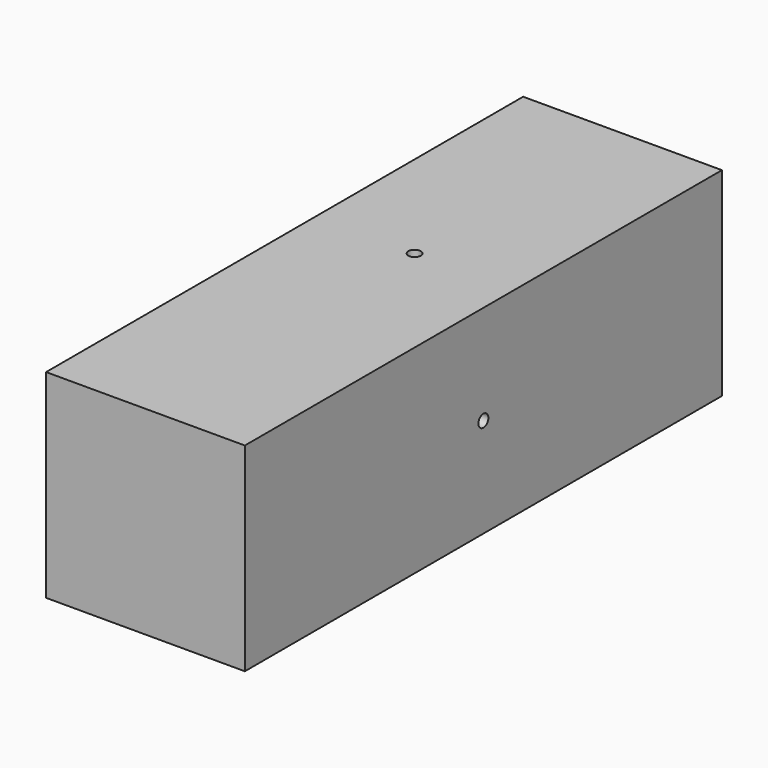
from build123d import *

# Parameters (mm, degrees)
F0_W     = 25.4
F0_H     = 25.4
F1_DEPTH = 76.2
F2_R     = 0.79375
F3_DEPTH = 9.525
F4_R     = 0.79375
F5_DEPTH = 9.525
F6_R     = 0.79375
F7_DEPTH = 9.525
F8_R     = 0.79375
F9_DEPTH = 9.525


with BuildPart() as f1:
    # F0 (on Front) → F1 (new body)
    with BuildSketch(Plane.XZ):
        Rectangle(F0_W, F0_H)
    extrude(amount=F1_DEPTH)

    # F2 (on face) → F3 (cut)
    with BuildSketch(Plane.XY.offset(12.7)):
        with Locations((0, -33.217845)):
            Circle(F2_R)
    extrude(amount=-F3_DEPTH, mode=Mode.SUBTRACT)

    # F4 (on face) → F5 (cut)
    with BuildSketch(Plane.YZ.offset(12.7)):
        with Locations((-38.1, 0)):
            Circle(F4_R)
    extrude(amount=-F5_DEPTH, mode=Mode.SUBTRACT)

    # F6 (on face) → F7 (cut)
    with BuildSketch(Plane(origin=(0, 0, -12.7), x_dir=(1, 0, 0), z_dir=(0, 0, -1))):
        with Locations((0, 64.789804)):
            Circle(F6_R)
    extrude(amount=-F7_DEPTH, mode=Mode.SUBTRACT)

    # F8 (on face) → F9 (cut)
    with BuildSketch(Plane(origin=(-12.7, 0, 0), x_dir=(0, -1, 0), z_dir=(-1, 0, 0))):
        with Locations((62.230002, 0)):
            Circle(F8_R)
    extrude(amount=-F9_DEPTH, mode=Mode.SUBTRACT)


solid = f1.part
